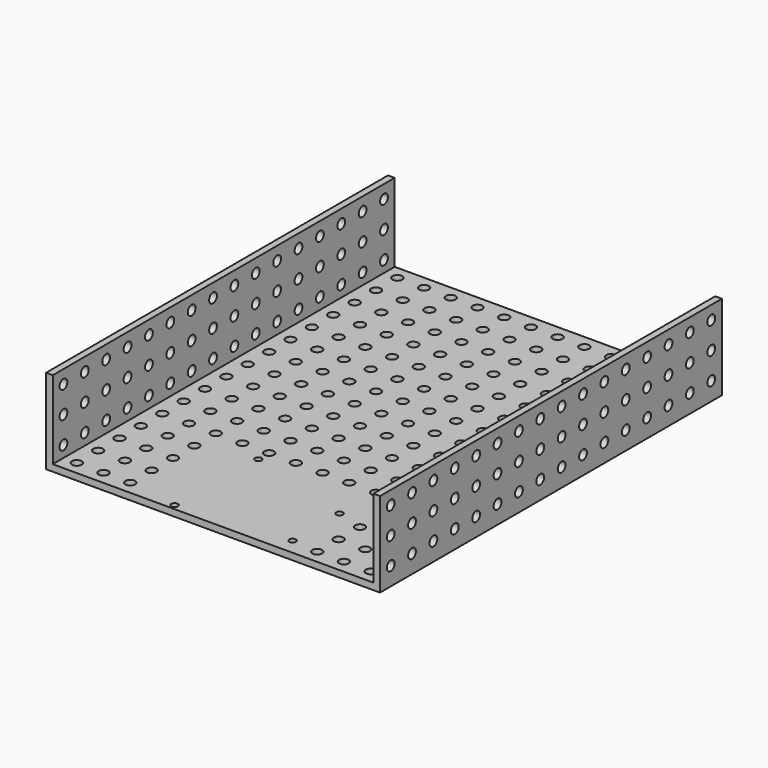
from build123d import *

# Parameters (mm, degrees)
F0_R     = 2.3114
F1_DEPTH = 3.175
F2_R     = 2.3114
F2_W     = 203.2
F2_H     = 3.175
F3_DEPTH = 3.175
F4_W     = 203.2
F4_H     = 3.175
F4_R     = 2.3114
F5_DEPTH = 3.175


with BuildPart() as f1:
    # F0 (on Top) → F1 (new body)
    with BuildSketch(Plane.XY):
        Polygon((71.163251, 121.150403), (-81.236749, 121.150403), (-81.236749, -82.049597), (-39.326749, -82.049597), (-39.326749, -79.509597), (-39.326749, -31.249597), (-39.326749, -28.709597), (26.713251, -28.709597), (29.253251, -28.709597), (29.253251, -82.049597), (71.163251, -82.049597), align=None)
        with Locations((-74.886749, -75.699597)):
            Circle(F0_R, mode=Mode.SUBTRACT)
        with Locations((-74.886749, -62.999597)):
            Circle(F0_R, mode=Mode.SUBTRACT)
        with Locations((-62.186749, -75.699597)):
            Circle(F0_R, mode=Mode.SUBTRACT)
        with Locations((-49.486749, -75.699597)):
            Circle(F0_R, mode=Mode.SUBTRACT)
        with Locations((-62.186749, -62.999597)):
            Circle(F0_R, mode=Mode.SUBTRACT)
        with Locations((-49.486749, -62.999597)):
            Circle(F0_R, mode=Mode.SUBTRACT)
        with Locations((-74.886749, -50.299597)):
            Circle(F0_R, mode=Mode.SUBTRACT)
        with Locations((-74.886749, -37.599597)):
            Circle(F0_R, mode=Mode.SUBTRACT)
        with Locations((-62.186749, -50.299597)):
            Circle(F0_R, mode=Mode.SUBTRACT)
        with Locations((-49.486749, -50.299597)):
            Circle(F0_R, mode=Mode.SUBTRACT)
        with Locations((-62.186749, -37.599597)):
            Circle(F0_R, mode=Mode.SUBTRACT)
        with Locations((-49.486749, -37.599597)):
            Circle(F0_R, mode=Mode.SUBTRACT)
        with Locations((-74.886749, -24.899597)):
            Circle(F0_R, mode=Mode.SUBTRACT)
        with Locations((-74.886749, -12.199597)):
            Circle(F0_R, mode=Mode.SUBTRACT)
        with Locations((-62.186749, -24.899597)):
            Circle(F0_R, mode=Mode.SUBTRACT)
        with Locations((-49.486749, -24.899597)):
            Circle(F0_R, mode=Mode.SUBTRACT)
        with Locations((-62.186749, -12.199597)):
            Circle(F0_R, mode=Mode.SUBTRACT)
        with Locations((-49.486749, -12.199597)):
            Circle(F0_R, mode=Mode.SUBTRACT)
        with Locations((-74.886749, 0.500403)):
            Circle(F0_R, mode=Mode.SUBTRACT)
        with Locations((-74.886749, 13.200403)):
            Circle(F0_R, mode=Mode.SUBTRACT)
        with Locations((-62.186749, 0.500403)):
            Circle(F0_R, mode=Mode.SUBTRACT)
        with Locations((-49.486749, 0.500403)):
            Circle(F0_R, mode=Mode.SUBTRACT)
        with Locations((-62.186749, 13.200403)):
            Circle(F0_R, mode=Mode.SUBTRACT)
        with Locations((-49.486749, 13.200403)):
            Circle(F0_R, mode=Mode.SUBTRACT)
        with Locations((-36.786749, -24.899597)):
            Circle(F0_R, mode=Mode.SUBTRACT)
        with Locations((-36.786749, -12.199597)):
            Circle(F0_R, mode=Mode.SUBTRACT)
        with Locations((-24.086749, -24.899597)):
            Circle(F0_R, mode=Mode.SUBTRACT)
        with Locations((-11.386749, -24.899597)):
            Circle(F0_R, mode=Mode.SUBTRACT)
        with Locations((-24.086749, -12.199597)):
            Circle(F0_R, mode=Mode.SUBTRACT)
        with Locations((-11.386749, -12.199597)):
            Circle(F0_R, mode=Mode.SUBTRACT)
        with Locations((-36.786749, 0.500403)):
            Circle(F0_R, mode=Mode.SUBTRACT)
        with Locations((-36.786749, 13.200403)):
            Circle(F0_R, mode=Mode.SUBTRACT)
        with Locations((-24.086749, 0.500403)):
            Circle(F0_R, mode=Mode.SUBTRACT)
        with Locations((-11.386749, 0.500403)):
            Circle(F0_R, mode=Mode.SUBTRACT)
        with Locations((-24.086749, 13.200403)):
            Circle(F0_R, mode=Mode.SUBTRACT)
        with Locations((-11.386749, 13.200403)):
            Circle(F0_R, mode=Mode.SUBTRACT)
        with Locations((39.413251, -75.699597)):
            Circle(F0_R, mode=Mode.SUBTRACT)
        with Locations((39.413251, -62.999597)):
            Circle(F0_R, mode=Mode.SUBTRACT)
        with Locations((52.113251, -75.699597)):
            Circle(F0_R, mode=Mode.SUBTRACT)
        with Locations((64.813251, -75.699597)):
            Circle(F0_R, mode=Mode.SUBTRACT)
        with Locations((52.113251, -62.999597)):
            Circle(F0_R, mode=Mode.SUBTRACT)
        with Locations((64.813251, -62.999597)):
            Circle(F0_R, mode=Mode.SUBTRACT)
        with Locations((39.413251, -50.299597)):
            Circle(F0_R, mode=Mode.SUBTRACT)
        with Locations((39.413251, -37.599597)):
            Circle(F0_R, mode=Mode.SUBTRACT)
        with Locations((52.113251, -50.299597)):
            Circle(F0_R, mode=Mode.SUBTRACT)
        with Locations((64.813251, -50.299597)):
            Circle(F0_R, mode=Mode.SUBTRACT)
        with Locations((52.113251, -37.599597)):
            Circle(F0_R, mode=Mode.SUBTRACT)
        with Locations((64.813251, -37.599597)):
            Circle(F0_R, mode=Mode.SUBTRACT)
        with Locations((1.313251, -24.899597)):
            Circle(F0_R, mode=Mode.SUBTRACT)
        with Locations((1.313251, -12.199597)):
            Circle(F0_R, mode=Mode.SUBTRACT)
        with Locations((14.013251, -24.899597)):
            Circle(F0_R, mode=Mode.SUBTRACT)
        with Locations((26.713251, -24.899597)):
            Circle(F0_R, mode=Mode.SUBTRACT)
        with Locations((14.013251, -12.199597)):
            Circle(F0_R, mode=Mode.SUBTRACT)
        with Locations((26.713251, -12.199597)):
            Circle(F0_R, mode=Mode.SUBTRACT)
        with Locations((1.313251, 0.500403)):
            Circle(F0_R, mode=Mode.SUBTRACT)
        with Locations((1.313251, 13.200403)):
            Circle(F0_R, mode=Mode.SUBTRACT)
        with Locations((14.013251, 0.500403)):
            Circle(F0_R, mode=Mode.SUBTRACT)
        with Locations((26.713251, 0.500403)):
            Circle(F0_R, mode=Mode.SUBTRACT)
        with Locations((14.013251, 13.200403)):
            Circle(F0_R, mode=Mode.SUBTRACT)
        with Locations((26.713251, 13.200403)):
            Circle(F0_R, mode=Mode.SUBTRACT)
        with Locations((39.413251, -24.899597)):
            Circle(F0_R, mode=Mode.SUBTRACT)
        with Locations((39.413251, -12.199597)):
            Circle(F0_R, mode=Mode.SUBTRACT)
        with Locations((52.113251, -24.899597)):
            Circle(F0_R, mode=Mode.SUBTRACT)
        with Locations((64.813251, -24.899597)):
            Circle(F0_R, mode=Mode.SUBTRACT)
        with Locations((52.113251, -12.199597)):
            Circle(F0_R, mode=Mode.SUBTRACT)
        with Locations((64.813251, -12.199597)):
            Circle(F0_R, mode=Mode.SUBTRACT)
        with Locations((39.413251, 0.500403)):
            Circle(F0_R, mode=Mode.SUBTRACT)
        with Locations((39.413251, 13.200403)):
            Circle(F0_R, mode=Mode.SUBTRACT)
        with Locations((52.113251, 0.500403)):
            Circle(F0_R, mode=Mode.SUBTRACT)
        with Locations((64.813251, 0.500403)):
            Circle(F0_R, mode=Mode.SUBTRACT)
        with Locations((52.113251, 13.200403)):
            Circle(F0_R, mode=Mode.SUBTRACT)
        with Locations((64.813251, 13.200403)):
            Circle(F0_R, mode=Mode.SUBTRACT)
        with Locations((-74.886749, 25.900403)):
            Circle(F0_R, mode=Mode.SUBTRACT)
        with Locations((-74.886749, 38.600403)):
            Circle(F0_R, mode=Mode.SUBTRACT)
        with Locations((-62.186749, 25.900403)):
            Circle(F0_R, mode=Mode.SUBTRACT)
        with Locations((-49.486749, 25.900403)):
            Circle(F0_R, mode=Mode.SUBTRACT)
        with Locations((-62.186749, 38.600403)):
            Circle(F0_R, mode=Mode.SUBTRACT)
        with Locations((-49.486749, 38.600403)):
            Circle(F0_R, mode=Mode.SUBTRACT)
        with Locations((-74.886749, 51.300403)):
            Circle(F0_R, mode=Mode.SUBTRACT)
        with Locations((-74.886749, 64.000403)):
            Circle(F0_R, mode=Mode.SUBTRACT)
        with Locations((-62.186749, 51.300403)):
            Circle(F0_R, mode=Mode.SUBTRACT)
        with Locations((-49.486749, 51.300403)):
            Circle(F0_R, mode=Mode.SUBTRACT)
        with Locations((-62.186749, 64.000403)):
            Circle(F0_R, mode=Mode.SUBTRACT)
        with Locations((-49.486749, 64.000403)):
            Circle(F0_R, mode=Mode.SUBTRACT)
        with Locations((-36.786749, 25.900403)):
            Circle(F0_R, mode=Mode.SUBTRACT)
        with Locations((-36.786749, 38.600403)):
            Circle(F0_R, mode=Mode.SUBTRACT)
        with Locations((-24.086749, 25.900403)):
            Circle(F0_R, mode=Mode.SUBTRACT)
        with Locations((-11.386749, 25.900403)):
            Circle(F0_R, mode=Mode.SUBTRACT)
        with Locations((-24.086749, 38.600403)):
            Circle(F0_R, mode=Mode.SUBTRACT)
        with Locations((-11.386749, 38.600403)):
            Circle(F0_R, mode=Mode.SUBTRACT)
        with Locations((-36.786749, 51.300403)):
            Circle(F0_R, mode=Mode.SUBTRACT)
        with Locations((-36.786749, 64.000403)):
            Circle(F0_R, mode=Mode.SUBTRACT)
        with Locations((-24.086749, 51.300403)):
            Circle(F0_R, mode=Mode.SUBTRACT)
        with Locations((-11.386749, 51.300403)):
            Circle(F0_R, mode=Mode.SUBTRACT)
        with Locations((-24.086749, 64.000403)):
            Circle(F0_R, mode=Mode.SUBTRACT)
        with Locations((-11.386749, 64.000403)):
            Circle(F0_R, mode=Mode.SUBTRACT)
        with Locations((-74.886749, 76.700403)):
            Circle(F0_R, mode=Mode.SUBTRACT)
        with Locations((-74.886749, 89.400403)):
            Circle(F0_R, mode=Mode.SUBTRACT)
        with Locations((-62.186749, 76.700403)):
            Circle(F0_R, mode=Mode.SUBTRACT)
        with Locations((-49.486749, 76.700403)):
            Circle(F0_R, mode=Mode.SUBTRACT)
        with Locations((-62.186749, 89.400403)):
            Circle(F0_R, mode=Mode.SUBTRACT)
        with Locations((-49.486749, 89.400403)):
            Circle(F0_R, mode=Mode.SUBTRACT)
        with Locations((-74.886749, 102.100403)):
            Circle(F0_R, mode=Mode.SUBTRACT)
        with Locations((-74.886749, 114.800403)):
            Circle(F0_R, mode=Mode.SUBTRACT)
        with Locations((-62.186749, 102.100403)):
            Circle(F0_R, mode=Mode.SUBTRACT)
        with Locations((-49.486749, 102.100403)):
            Circle(F0_R, mode=Mode.SUBTRACT)
        with Locations((-62.186749, 114.800403)):
            Circle(F0_R, mode=Mode.SUBTRACT)
        with Locations((-49.486749, 114.800403)):
            Circle(F0_R, mode=Mode.SUBTRACT)
        with Locations((-36.786749, 76.700403)):
            Circle(F0_R, mode=Mode.SUBTRACT)
        with Locations((-36.786749, 89.400403)):
            Circle(F0_R, mode=Mode.SUBTRACT)
        with Locations((-24.086749, 76.700403)):
            Circle(F0_R, mode=Mode.SUBTRACT)
        with Locations((-11.386749, 76.700403)):
            Circle(F0_R, mode=Mode.SUBTRACT)
        with Locations((-24.086749, 89.400403)):
            Circle(F0_R, mode=Mode.SUBTRACT)
        with Locations((-11.386749, 89.400403)):
            Circle(F0_R, mode=Mode.SUBTRACT)
        with Locations((-36.786749, 102.100403)):
            Circle(F0_R, mode=Mode.SUBTRACT)
        with Locations((-36.786749, 114.800403)):
            Circle(F0_R, mode=Mode.SUBTRACT)
        with Locations((-24.086749, 102.100403)):
            Circle(F0_R, mode=Mode.SUBTRACT)
        with Locations((-11.386749, 102.100403)):
            Circle(F0_R, mode=Mode.SUBTRACT)
        with Locations((-24.086749, 114.800403)):
            Circle(F0_R, mode=Mode.SUBTRACT)
        with Locations((-11.386749, 114.800403)):
            Circle(F0_R, mode=Mode.SUBTRACT)
        with Locations((1.313251, 25.900403)):
            Circle(F0_R, mode=Mode.SUBTRACT)
        with Locations((1.313251, 38.600403)):
            Circle(F0_R, mode=Mode.SUBTRACT)
        with Locations((14.013251, 25.900403)):
            Circle(F0_R, mode=Mode.SUBTRACT)
        with Locations((26.713251, 25.900403)):
            Circle(F0_R, mode=Mode.SUBTRACT)
        with Locations((14.013251, 38.600403)):
            Circle(F0_R, mode=Mode.SUBTRACT)
        with Locations((26.713251, 38.600403)):
            Circle(F0_R, mode=Mode.SUBTRACT)
        with Locations((1.313251, 51.300403)):
            Circle(F0_R, mode=Mode.SUBTRACT)
        with Locations((1.313251, 64.000403)):
            Circle(F0_R, mode=Mode.SUBTRACT)
        with Locations((14.013251, 51.300403)):
            Circle(F0_R, mode=Mode.SUBTRACT)
        with Locations((26.713251, 51.300403)):
            Circle(F0_R, mode=Mode.SUBTRACT)
        with Locations((14.013251, 64.000403)):
            Circle(F0_R, mode=Mode.SUBTRACT)
        with Locations((26.713251, 64.000403)):
            Circle(F0_R, mode=Mode.SUBTRACT)
        with Locations((39.413251, 25.900403)):
            Circle(F0_R, mode=Mode.SUBTRACT)
        with Locations((39.413251, 38.600403)):
            Circle(F0_R, mode=Mode.SUBTRACT)
        with Locations((52.113251, 25.900403)):
            Circle(F0_R, mode=Mode.SUBTRACT)
        with Locations((64.813251, 25.900403)):
            Circle(F0_R, mode=Mode.SUBTRACT)
        with Locations((52.113251, 38.600403)):
            Circle(F0_R, mode=Mode.SUBTRACT)
        with Locations((64.813251, 38.600403)):
            Circle(F0_R, mode=Mode.SUBTRACT)
        with Locations((39.413251, 51.300403)):
            Circle(F0_R, mode=Mode.SUBTRACT)
        with Locations((39.413251, 64.000403)):
            Circle(F0_R, mode=Mode.SUBTRACT)
        with Locations((52.113251, 51.300403)):
            Circle(F0_R, mode=Mode.SUBTRACT)
        with Locations((64.813251, 51.300403)):
            Circle(F0_R, mode=Mode.SUBTRACT)
        with Locations((52.113251, 64.000403)):
            Circle(F0_R, mode=Mode.SUBTRACT)
        with Locations((64.813251, 64.000403)):
            Circle(F0_R, mode=Mode.SUBTRACT)
        with Locations((1.313251, 76.700403)):
            Circle(F0_R, mode=Mode.SUBTRACT)
        with Locations((1.313251, 89.400403)):
            Circle(F0_R, mode=Mode.SUBTRACT)
        with Locations((14.013251, 76.700403)):
            Circle(F0_R, mode=Mode.SUBTRACT)
        with Locations((26.713251, 76.700403)):
            Circle(F0_R, mode=Mode.SUBTRACT)
        with Locations((14.013251, 89.400403)):
            Circle(F0_R, mode=Mode.SUBTRACT)
        with Locations((26.713251, 89.400403)):
            Circle(F0_R, mode=Mode.SUBTRACT)
        with Locations((1.313251, 102.100403)):
            Circle(F0_R, mode=Mode.SUBTRACT)
        with Locations((1.313251, 114.800403)):
            Circle(F0_R, mode=Mode.SUBTRACT)
        with Locations((14.013251, 102.100403)):
            Circle(F0_R, mode=Mode.SUBTRACT)
        with Locations((26.713251, 102.100403)):
            Circle(F0_R, mode=Mode.SUBTRACT)
        with Locations((14.013251, 114.800403)):
            Circle(F0_R, mode=Mode.SUBTRACT)
        with Locations((26.713251, 114.800403)):
            Circle(F0_R, mode=Mode.SUBTRACT)
        with Locations((39.413251, 76.700403)):
            Circle(F0_R, mode=Mode.SUBTRACT)
        with Locations((39.413251, 89.400403)):
            Circle(F0_R, mode=Mode.SUBTRACT)
        with Locations((52.113251, 76.700403)):
            Circle(F0_R, mode=Mode.SUBTRACT)
        with Locations((64.813251, 76.700403)):
            Circle(F0_R, mode=Mode.SUBTRACT)
        with Locations((52.113251, 89.400403)):
            Circle(F0_R, mode=Mode.SUBTRACT)
        with Locations((64.813251, 89.400403)):
            Circle(F0_R, mode=Mode.SUBTRACT)
        with Locations((39.413251, 102.100403)):
            Circle(F0_R, mode=Mode.SUBTRACT)
        with Locations((39.413251, 114.800403)):
            Circle(F0_R, mode=Mode.SUBTRACT)
        with Locations((52.113251, 102.100403)):
            Circle(F0_R, mode=Mode.SUBTRACT)
        with Locations((64.813251, 102.100403)):
            Circle(F0_R, mode=Mode.SUBTRACT)
        with Locations((52.113251, 114.800403)):
            Circle(F0_R, mode=Mode.SUBTRACT)
        with Locations((64.813251, 114.800403)):
            Circle(F0_R, mode=Mode.SUBTRACT)
        with BuildLine():
            ThreePointArc((28.300751, -74.429597), (27.835783, -73.307065), (26.713251, -72.842097))
            ThreePointArc((26.713251, -72.842097), (25.590719, -75.552129), (28.300751, -74.429597))
        make_face()
        with BuildLine():
            ThreePointArc((-22.499249, -31.249597), (-24.086749, -29.662097), (-25.674249, -31.249597))
            ThreePointArc((-25.674249, -31.249597), (-24.086749, -32.837097), (-22.499249, -31.249597))
        make_face()
        with BuildLine():
            ThreePointArc((-23.769249, -79.509597), (-25.356749, -77.922097), (-26.944249, -79.509597))
            ThreePointArc((-26.944249, -79.509597), (-25.356749, -81.097097), (-23.769249, -79.509597))
        make_face()
        Polygon((-39.326749, -79.509597), (-39.326749, -82.049597), (29.253251, -82.049597), (29.253251, -28.709597), (26.713251, -28.709597), (-39.326749, -28.709597), (-39.326749, -31.249597), align=None)
        with BuildLine():
            ThreePointArc((-23.769249, -79.509597), (-25.356749, -81.097097), (-26.944249, -79.509597))
            ThreePointArc((-26.944249, -79.509597), (-25.356749, -77.922097), (-23.769249, -79.509597))
        make_face(mode=Mode.SUBTRACT)
        with BuildLine():
            ThreePointArc((-22.499249, -31.249597), (-24.086749, -32.837097), (-25.674249, -31.249597))
            ThreePointArc((-25.674249, -31.249597), (-24.086749, -29.662097), (-22.499249, -31.249597))
        make_face(mode=Mode.SUBTRACT)
        with BuildLine():
            ThreePointArc((28.300751, -74.429597), (25.590719, -75.552129), (26.713251, -72.842097))
            ThreePointArc((26.713251, -72.842097), (27.835783, -73.307065), (28.300751, -74.429597))
        make_face(mode=Mode.SUBTRACT)
        with BuildLine():
            ThreePointArc((26.713251, -48.077097), (25.125751, -46.489597), (26.713251, -44.902097))
            ThreePointArc((26.713251, -44.902097), (27.835783, -45.367065), (28.300751, -46.489597))
            ThreePointArc((28.300751, -46.489597), (27.835783, -47.612129), (26.713251, -48.077097))
        make_face(mode=Mode.SUBTRACT)
    extrude(amount=F1_DEPTH)

    # F2 (on face) → F3 (join)
    with BuildSketch(Plane(origin=(-81.236749, 0, 0), x_dir=(0, -1, 0), z_dir=(-1, 0, 0))):
        Polygon((-121.150403, 36.3728), (-121.150403, 0), (82.049597, 0), (82.049597, 40.4114), (-117.111803, 40.4114), (-121.150403, 40.4114), align=None)
        with Locations((-114.800403, 8.6614)):
            Circle(F2_R, mode=Mode.SUBTRACT)
        with Locations((-102.100403, 8.6614)):
            Circle(F2_R, mode=Mode.SUBTRACT)
        with Locations((-89.400403, 8.6614)):
            Circle(F2_R, mode=Mode.SUBTRACT)
        with Locations((-76.700403, 8.6614)):
            Circle(F2_R, mode=Mode.SUBTRACT)
        with Locations((-64.000403, 8.6614)):
            Circle(F2_R, mode=Mode.SUBTRACT)
        with Locations((-51.300403, 8.6614)):
            Circle(F2_R, mode=Mode.SUBTRACT)
        with Locations((-38.600403, 8.6614)):
            Circle(F2_R, mode=Mode.SUBTRACT)
        with Locations((-25.900403, 8.6614)):
            Circle(F2_R, mode=Mode.SUBTRACT)
        with Locations((-13.200403, 8.6614)):
            Circle(F2_R, mode=Mode.SUBTRACT)
        with Locations((-0.500403, 8.6614)):
            Circle(F2_R, mode=Mode.SUBTRACT)
        with Locations((12.199597, 8.6614)):
            Circle(F2_R, mode=Mode.SUBTRACT)
        with Locations((24.899597, 8.6614)):
            Circle(F2_R, mode=Mode.SUBTRACT)
        with Locations((37.599597, 8.6614)):
            Circle(F2_R, mode=Mode.SUBTRACT)
        with Locations((50.299597, 8.6614)):
            Circle(F2_R, mode=Mode.SUBTRACT)
        with Locations((62.999597, 8.6614)):
            Circle(F2_R, mode=Mode.SUBTRACT)
        with Locations((75.699597, 8.6614)):
            Circle(F2_R, mode=Mode.SUBTRACT)
        with Locations((-114.800403, 21.3614)):
            Circle(F2_R, mode=Mode.SUBTRACT)
        with Locations((-102.100403, 21.3614)):
            Circle(F2_R, mode=Mode.SUBTRACT)
        with Locations((-89.400403, 21.3614)):
            Circle(F2_R, mode=Mode.SUBTRACT)
        with Locations((-76.700403, 21.3614)):
            Circle(F2_R, mode=Mode.SUBTRACT)
        with Locations((-64.000403, 21.3614)):
            Circle(F2_R, mode=Mode.SUBTRACT)
        with Locations((-51.300403, 21.3614)):
            Circle(F2_R, mode=Mode.SUBTRACT)
        with Locations((-38.600403, 21.3614)):
            Circle(F2_R, mode=Mode.SUBTRACT)
        with Locations((-25.900403, 21.3614)):
            Circle(F2_R, mode=Mode.SUBTRACT)
        with Locations((-114.800403, 34.0614)):
            Circle(F2_R, mode=Mode.SUBTRACT)
        with Locations((-102.100403, 34.0614)):
            Circle(F2_R, mode=Mode.SUBTRACT)
        with Locations((-89.400403, 34.0614)):
            Circle(F2_R, mode=Mode.SUBTRACT)
        with Locations((-76.700403, 34.0614)):
            Circle(F2_R, mode=Mode.SUBTRACT)
        with Locations((-64.000403, 34.0614)):
            Circle(F2_R, mode=Mode.SUBTRACT)
        with Locations((-51.300403, 34.0614)):
            Circle(F2_R, mode=Mode.SUBTRACT)
        with Locations((-38.600403, 34.0614)):
            Circle(F2_R, mode=Mode.SUBTRACT)
        with Locations((-25.900403, 34.0614)):
            Circle(F2_R, mode=Mode.SUBTRACT)
        with Locations((-13.200403, 21.3614)):
            Circle(F2_R, mode=Mode.SUBTRACT)
        with Locations((-0.500403, 21.3614)):
            Circle(F2_R, mode=Mode.SUBTRACT)
        with Locations((12.199597, 21.3614)):
            Circle(F2_R, mode=Mode.SUBTRACT)
        with Locations((24.899597, 21.3614)):
            Circle(F2_R, mode=Mode.SUBTRACT)
        with Locations((37.599597, 21.3614)):
            Circle(F2_R, mode=Mode.SUBTRACT)
        with Locations((50.299597, 21.3614)):
            Circle(F2_R, mode=Mode.SUBTRACT)
        with Locations((62.999597, 21.3614)):
            Circle(F2_R, mode=Mode.SUBTRACT)
        with Locations((75.699597, 21.3614)):
            Circle(F2_R, mode=Mode.SUBTRACT)
        with Locations((-13.200403, 34.0614)):
            Circle(F2_R, mode=Mode.SUBTRACT)
        with Locations((-0.500403, 34.0614)):
            Circle(F2_R, mode=Mode.SUBTRACT)
        with Locations((12.199597, 34.0614)):
            Circle(F2_R, mode=Mode.SUBTRACT)
        with Locations((24.899597, 34.0614)):
            Circle(F2_R, mode=Mode.SUBTRACT)
        with Locations((37.599597, 34.0614)):
            Circle(F2_R, mode=Mode.SUBTRACT)
        with Locations((50.299597, 34.0614)):
            Circle(F2_R, mode=Mode.SUBTRACT)
        with Locations((62.999597, 34.0614)):
            Circle(F2_R, mode=Mode.SUBTRACT)
        with Locations((75.699597, 34.0614)):
            Circle(F2_R, mode=Mode.SUBTRACT)
        with Locations((-19.550403, 1.5875)):
            Rectangle(F2_W, F2_H)
    extrude(amount=F3_DEPTH)

    # F4 (on face) → F5 (join)
    with BuildSketch(Plane.YZ.offset(71.163251)):
        with Locations((19.550403, 1.5875)):
            Rectangle(F4_W, F4_H)
        Polygon((-82.049597, 36.3728), (-82.049597, 3.175), (121.150403, 3.175), (121.150403, 40.4114), (-78.010997, 40.4114), (-82.049597, 40.4114), align=None)
        with Locations((-75.699597, 8.6614)):
            Circle(F4_R, mode=Mode.SUBTRACT)
        with Locations((-62.999597, 8.6614)):
            Circle(F4_R, mode=Mode.SUBTRACT)
        with Locations((-50.299597, 8.6614)):
            Circle(F4_R, mode=Mode.SUBTRACT)
        with Locations((-37.599597, 8.6614)):
            Circle(F4_R, mode=Mode.SUBTRACT)
        with Locations((-24.899597, 8.6614)):
            Circle(F4_R, mode=Mode.SUBTRACT)
        with Locations((-12.199597, 8.6614)):
            Circle(F4_R, mode=Mode.SUBTRACT)
        with Locations((0.500403, 8.6614)):
            Circle(F4_R, mode=Mode.SUBTRACT)
        with Locations((13.200403, 8.6614)):
            Circle(F4_R, mode=Mode.SUBTRACT)
        with Locations((25.900403, 8.6614)):
            Circle(F4_R, mode=Mode.SUBTRACT)
        with Locations((38.600403, 8.6614)):
            Circle(F4_R, mode=Mode.SUBTRACT)
        with Locations((51.300403, 8.6614)):
            Circle(F4_R, mode=Mode.SUBTRACT)
        with Locations((64.000403, 8.6614)):
            Circle(F4_R, mode=Mode.SUBTRACT)
        with Locations((76.700403, 8.6614)):
            Circle(F4_R, mode=Mode.SUBTRACT)
        with Locations((89.400403, 8.6614)):
            Circle(F4_R, mode=Mode.SUBTRACT)
        with Locations((102.100403, 8.6614)):
            Circle(F4_R, mode=Mode.SUBTRACT)
        with Locations((114.800403, 8.6614)):
            Circle(F4_R, mode=Mode.SUBTRACT)
        with Locations((-75.699597, 21.3614)):
            Circle(F4_R, mode=Mode.SUBTRACT)
        with Locations((-62.999597, 21.3614)):
            Circle(F4_R, mode=Mode.SUBTRACT)
        with Locations((-50.299597, 21.3614)):
            Circle(F4_R, mode=Mode.SUBTRACT)
        with Locations((-37.599597, 21.3614)):
            Circle(F4_R, mode=Mode.SUBTRACT)
        with Locations((-24.899597, 21.3614)):
            Circle(F4_R, mode=Mode.SUBTRACT)
        with Locations((-12.199597, 21.3614)):
            Circle(F4_R, mode=Mode.SUBTRACT)
        with Locations((0.500403, 21.3614)):
            Circle(F4_R, mode=Mode.SUBTRACT)
        with Locations((13.200403, 21.3614)):
            Circle(F4_R, mode=Mode.SUBTRACT)
        with Locations((-75.699597, 34.0614)):
            Circle(F4_R, mode=Mode.SUBTRACT)
        with Locations((-62.999597, 34.0614)):
            Circle(F4_R, mode=Mode.SUBTRACT)
        with Locations((-50.299597, 34.0614)):
            Circle(F4_R, mode=Mode.SUBTRACT)
        with Locations((-37.599597, 34.0614)):
            Circle(F4_R, mode=Mode.SUBTRACT)
        with Locations((-24.899597, 34.0614)):
            Circle(F4_R, mode=Mode.SUBTRACT)
        with Locations((-12.199597, 34.0614)):
            Circle(F4_R, mode=Mode.SUBTRACT)
        with Locations((0.500403, 34.0614)):
            Circle(F4_R, mode=Mode.SUBTRACT)
        with Locations((13.200403, 34.0614)):
            Circle(F4_R, mode=Mode.SUBTRACT)
        with Locations((25.900403, 21.3614)):
            Circle(F4_R, mode=Mode.SUBTRACT)
        with Locations((38.600403, 21.3614)):
            Circle(F4_R, mode=Mode.SUBTRACT)
        with Locations((51.300403, 21.3614)):
            Circle(F4_R, mode=Mode.SUBTRACT)
        with Locations((64.000403, 21.3614)):
            Circle(F4_R, mode=Mode.SUBTRACT)
        with Locations((76.700403, 21.3614)):
            Circle(F4_R, mode=Mode.SUBTRACT)
        with Locations((89.400403, 21.3614)):
            Circle(F4_R, mode=Mode.SUBTRACT)
        with Locations((102.100403, 21.3614)):
            Circle(F4_R, mode=Mode.SUBTRACT)
        with Locations((114.800403, 21.3614)):
            Circle(F4_R, mode=Mode.SUBTRACT)
        with Locations((25.900403, 34.0614)):
            Circle(F4_R, mode=Mode.SUBTRACT)
        with Locations((38.600403, 34.0614)):
            Circle(F4_R, mode=Mode.SUBTRACT)
        with Locations((51.300403, 34.0614)):
            Circle(F4_R, mode=Mode.SUBTRACT)
        with Locations((64.000403, 34.0614)):
            Circle(F4_R, mode=Mode.SUBTRACT)
        with Locations((76.700403, 34.0614)):
            Circle(F4_R, mode=Mode.SUBTRACT)
        with Locations((89.400403, 34.0614)):
            Circle(F4_R, mode=Mode.SUBTRACT)
        with Locations((102.100403, 34.0614)):
            Circle(F4_R, mode=Mode.SUBTRACT)
        with Locations((114.800403, 34.0614)):
            Circle(F4_R, mode=Mode.SUBTRACT)
    extrude(amount=F5_DEPTH)


solid = f1.part
